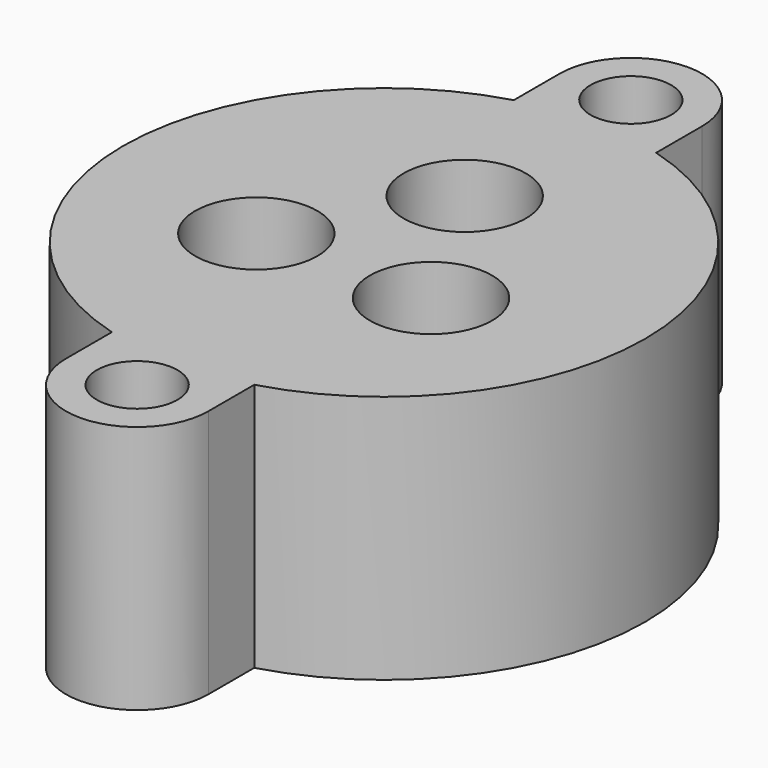
from build123d import *

# Parameters (mm, degrees)
CYLINDER150_R       = 1.7
CYLINDER150_DEPTH   = 11
CYLINDER154_R       = 7.14375
CYLINDER154_DEPTH   = 2.38125
CYLINDER155_R       = 9.525
CYLINDER155_DEPTH   = 2.38125
CYLINDER157_R       = 2.2
CYLINDER157_DEPTH   = 9
CYLINDER156_R       = 0.8
CYLINDER156_DEPTH   = 5
CYLINDER147_R       = 2.575
CYLINDER147_DEPTH   = 6
ARRAY_COUNT         = 3
CYLINDER151_R       = 1.7
CYLINDER151_DEPTH   = 11
BOX001_W            = 3
BOX001_H            = 6
BOX001_DEPTH        = 10.5
BOX_W               = 3
BOX_H               = 6
BOX_DEPTH           = 10.5
CYLINDER_R          = 3
CYLINDER_DEPTH      = 10.5
CYLINDER153_R       = 11
CYLINDER153_DEPTH   = 10.5
CYLINDER158_R       = 3
CYLINDER158_DEPTH   = 10.5
CUT_PLACEMENT_ANGLE = 90


with BuildPart() as obj1:
    # Cylinder150 → Cylinder150 (new body)
    with BuildSketch(Plane(origin=(-13, 0, 0), x_dir=(1, 0, 0), z_dir=(0, 0, 1))):
        Circle(CYLINDER150_R)
    extrude(amount=CYLINDER150_DEPTH)


with BuildPart() as cylinder008:
    # Cylinder154 → Cylinder154 (new body)
    with BuildSketch(Plane.XY):
        Circle(CYLINDER154_R)
    extrude(amount=CYLINDER154_DEPTH)


with BuildPart() as oring:
    # Cylinder155 → Cylinder155 (new body)
    with BuildSketch(Plane.XY):
        Circle(CYLINDER155_R)
    extrude(amount=CYLINDER155_DEPTH)

    # Cut019: cut Cylinder008
    add(cylinder008.part, mode=Mode.SUBTRACT)


with BuildPart() as oring_1:
    # Cut019 placement: moved
    add(oring.part.moved(Location((0, 0, -0.75))))


with BuildPart() as sealsubtraction:
    # Cylinder157 → Cylinder157 (new body)
    with BuildSketch(Plane.XY.offset(1.3)):
        Circle(CYLINDER157_R)
    extrude(amount=CYLINDER157_DEPTH)


with BuildPart() as bottomwireoutlet:
    # Cylinder156 → Cylinder156 (new body)
    with BuildSketch(Plane.XY.offset(-2)):
        Circle(CYLINDER156_R)
    extrude(amount=CYLINDER156_DEPTH)


with BuildPart() as sealarray:
    # Cylinder147 → Cylinder147 (new body)
    with BuildSketch(Plane.XY.offset(4.5)):
        Circle(CYLINDER147_R)
    extrude(amount=CYLINDER147_DEPTH)

    # Fusion: union SealSubtraction, BottomWireOutlet
    add(sealsubtraction.part)
    add(bottomwireoutlet.part)


with BuildPart() as sealarray_1:
    # Fusion placement: moved
    add(sealarray.part.moved(Location((4.25, 0, 0))))

    # Array: SealArray ×3 about axis
    array_axis = Axis((0, 0, 0), (0, 0, 1))


with BuildPart() as sealarray_2:
    add(sealarray_1.part)
    for i in range(1, ARRAY_COUNT):
        add(sealarray_1.part.rotate(array_axis, i * 360 / ARRAY_COUNT))


with BuildPart() as fusion002:
    # Cylinder151 → Cylinder151 (new body)
    with BuildSketch(Plane(origin=(13, 0, 0), x_dir=(1, 0, 0), z_dir=(0, 0, 1))):
        Circle(CYLINDER151_R)
    extrude(amount=CYLINDER151_DEPTH)

    # Fusion002: union obj1, Oring, SealArray
    add(obj1.part)
    add(oring_1.part)
    add(sealarray_2.part)


with BuildPart() as mountcube002:
    # Box001 → Box001 (new body)
    with BuildSketch(Plane(origin=(10, -3, 0), x_dir=(1, 0, 0), z_dir=(0, 0, 1))):
        with Locations((1.5, 3)):
            Rectangle(BOX001_W, BOX001_H)
    extrude(amount=BOX001_DEPTH)


with BuildPart() as mountcube1:
    # Box → Box (new body)
    with BuildSketch(Plane(origin=(-13, -3, 0), x_dir=(1, 0, 0), z_dir=(0, 0, 1))):
        with Locations((1.5, 3)):
            Rectangle(BOX_W, BOX_H)
    extrude(amount=BOX_DEPTH)


with BuildPart() as mountflange1:
    # Cylinder → Cylinder (new body)
    with BuildSketch(Plane(origin=(-13, 0, 0), x_dir=(1, 0, 0), z_dir=(0, 0, 1))):
        Circle(CYLINDER_R)
    extrude(amount=CYLINDER_DEPTH)


with BuildPart() as body:
    # Cylinder153 → Cylinder153 (new body)
    with BuildSketch(Plane.XY):
        Circle(CYLINDER153_R)
    extrude(amount=CYLINDER153_DEPTH)


with BuildPart() as base_cut002:
    # Cylinder158 → Cylinder158 (new body)
    with BuildSketch(Plane(origin=(13, 0, 0), x_dir=(1, 0, 0), z_dir=(0, 0, 1))):
        Circle(CYLINDER158_R)
    extrude(amount=CYLINDER158_DEPTH)

    # Fusion001: union MountCube002, MountCube1, MountFlange1, Body
    add(mountcube002.part)
    add(mountcube1.part)
    add(mountflange1.part)
    add(body.part)

    # Cut: cut Fusion002
    add(fusion002.part, mode=Mode.SUBTRACT)


with BuildPart() as base_cut002_1:
    # Cut placement: moved
    add(base_cut002.part.moved(Location((0, 0, -10.5))).rotate(Axis((0, 0, -10.5), (0, 0, 1)), CUT_PLACEMENT_ANGLE))


solid = base_cut002_1.part
